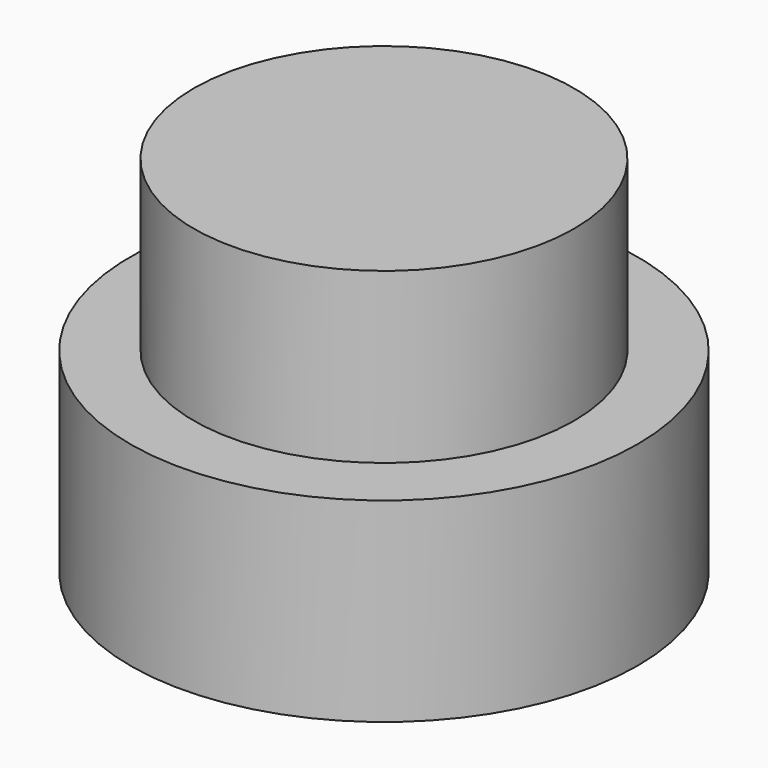
from build123d import *

# Parameters (mm, degrees)
F0_R = 8.115096
F3_R = 6.084927


with BuildPart() as f2:
    # F2: sweep along a path in F1
    with BuildLine(Plane.YZ) as f2_path:
        Line((0, 0), (0, -6.239993))
    # F0 (on Top) → F2 (sweep)
    with BuildSketch(Plane.XY):
        Circle(F0_R)
    sweep(path=f2_path.line)

    # F5: sweep along a path in F4
    with BuildLine(Plane.YZ) as f5_path:
        Line((0, 0), (0, 5.409237))
    # F3 (on Top) → F5 (sweep)
    with BuildSketch(Plane.XY):
        Circle(F3_R)
    sweep(path=f5_path.line)


solid = f2.part
